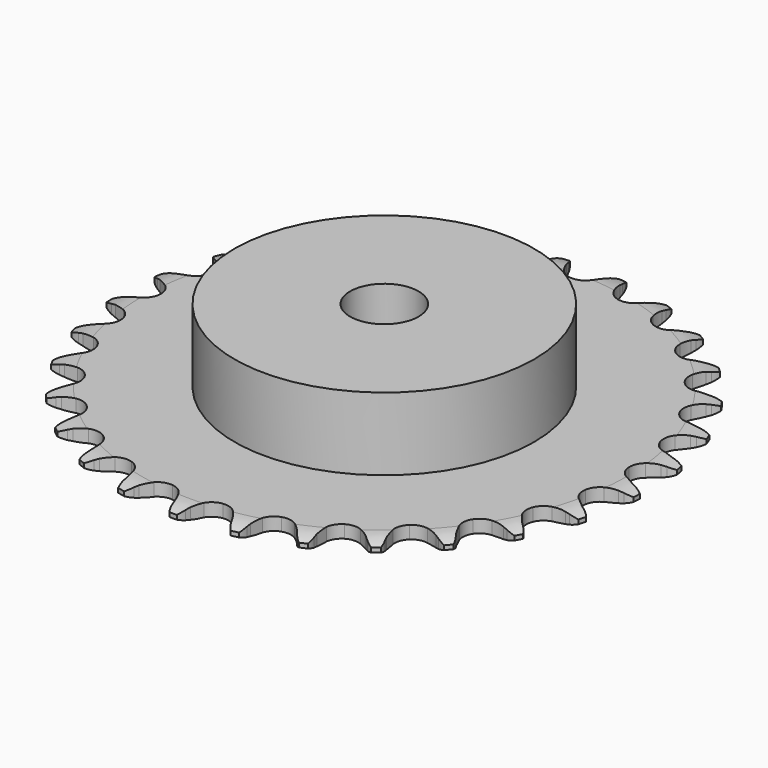
from build123d import *

# Parameters (mm, degrees)
PAD_DEPTH         = 3
SKETCH001_R       = 35
PAD001_DEPTH      = 20
SKETCH002_R       = 8
POCKET_DEPTH      = 0.001
POCKET_DEPTH_BACK = 20.001


with BuildPart() as part:
    # Sprocket → Pad (new body)
    with BuildSketch(Plane.XY):
        with BuildLine():
            ThreePointArc((-6.791897, 62.450459), (-5.669387, 61.260331), (-4.890226, 59.821809))
            Line((-4.890226, 59.821809), (-4.512435, 58.837629))
            ThreePointArc((-4.512435, 58.837629), (-3.912059, 57.551129), (-3.137763, 56.361172))
            ThreePointArc((-3.137763, 56.361172), (-1.752543, 55.21121), (0, 54.799098))
            ThreePointArc((0, 54.799098), (1.752543, 55.21121), (3.137763, 56.361172))
            ThreePointArc((3.137763, 56.361172), (3.912059, 57.551129), (4.512435, 58.837629))
            Line((4.512435, 58.837629), (4.890226, 59.821809))
            ThreePointArc((4.890226, 59.821809), (5.669387, 61.260331), (6.791897, 62.450459))
            ThreePointArc((6.791897, 62.450459), (7.632321, 61.046849), (8.084025, 59.474463))
            Line((8.084025, 59.474463), (8.241414, 58.432078))
            ThreePointArc((8.241414, 58.432078), (8.551194, 57.046593), (9.051582, 55.718005))
            ThreePointArc((9.051582, 55.718005), (10.157208, 54.297148), (11.780186, 53.517925))
            ThreePointArc((11.780186, 53.517925), (13.580348, 53.543658), (15.18039, 54.368952))
            Line((15.18039, 54.368952), (17.055288, 56.491998))
            ThreePointArc((17.055288, 56.491998), (17.3341, 56.939531), (17.635816, 57.371954))
            ThreePointArc((17.635816, 57.371954), (18.706, 58.609348), (20.058109, 59.530345))
            ThreePointArc((20.058109, 59.530345), (20.577149, 57.978884), (20.680276, 56.346156))
            Line((20.680276, 56.346156), (20.609904, 55.294308))
            ThreePointArc((20.609904, 55.294308), (20.614603, 53.874621), (20.817685, 52.469527))
            ThreePointArc((20.817685, 52.469527), (21.59202, 50.844211), (23.009544, 49.734314))
            ThreePointArc((23.009544, 49.734314), (24.773151, 49.372464), (26.513199, 49.834501))
            Line((26.513199, 49.834501), (28.800654, 51.504864))
            ThreePointArc((28.800654, 51.504864), (29.169155, 51.881997), (29.556775, 52.239451))
            ThreePointArc((29.556775, 52.239451), (30.867941, 53.217857), (32.386426, 53.826658))
            ThreePointArc((32.386426, 53.826658), (32.559813, 52.199891), (32.309541, 50.583166))
            Line((32.309541, 50.583166), (32.014698, 49.571038))
            ThreePointArc((32.014698, 49.571038), (31.714097, 48.183532), (31.610376, 46.767631))
            ThreePointArc((31.610376, 46.767631), (32.017213, 45.013856), (33.163001, 43.625182))
            ThreePointArc((33.163001, 43.625182), (34.807589, 42.892668), (36.606279, 42.969845))
            Line((36.606279, 42.969845), (39.199334, 44.109419))
            ThreePointArc((39.199334, 44.109419), (39.640292, 44.398519), (40.095692, 44.664289))
            ThreePointArc((40.095692, 44.664289), (41.586532, 45.337958), (43.20039, 45.606097))
            ThreePointArc((43.20039, 45.606097), (43.020016, 43.980089), (42.428048, 42.454964))
            Line((42.428048, 42.454964), (41.92252, 41.529881))
            ThreePointArc((41.92252, 41.529881), (41.330674, 40.239435), (40.925002, 38.878934))
            ThreePointArc((40.925002, 38.878934), (40.945317, 37.078702), (41.765793, 35.476184))
            ThreePointArc((41.765793, 35.476184), (43.214462, 34.407258), (44.987691, 34.095965))
            Line((44.987691, 34.095965), (47.765097, 34.651467))
            ThreePointArc((47.765097, 34.651467), (48.257893, 34.839015), (48.759779, 35.000674))
            ThreePointArc((48.759779, 35.000674), (50.360583, 35.338106), (51.994351, 35.253045))
            ThreePointArc((51.994351, 35.253045), (51.468651, 33.703828), (50.562666, 32.341614))
            Line((50.562666, 32.341614), (49.870091, 31.546833))
            ThreePointArc((49.870091, 31.546833), (49.014674, 30.413786), (48.326019, 29.1723))
            ThreePointArc((48.326019, 29.1723), (47.958863, 27.40979), (48.415663, 25.66836))
            ThreePointArc((48.415663, 25.66836), (49.600675, 24.313004), (51.265529, 23.627797))
            Line((51.265529, 23.627797), (54.097417, 23.573251))
            ThreePointArc((54.097417, 23.573251), (54.619009, 23.650478), (55.143912, 23.700466))
            ThreePointArc((55.143912, 23.700466), (56.779829, 23.685884), (58.357115, 23.2516))
            ThreePointArc((58.357115, 23.2516), (57.510669, 21.851612), (56.33303, 20.716007))
            Line((56.33303, 20.716007), (55.485793, 20.08869))
            ThreePointArc((55.485793, 20.08869), (54.406804, 19.166022), (53.467366, 18.101602))
            ThreePointArc((53.467366, 18.101602), (52.729906, 16.459227), (52.80167, 14.660312))
            ThreePointArc((52.80167, 14.660312), (53.667616, 13.0819), (55.146247, 12.054819))
            Line((55.146247, 12.054819), (57.900201, 11.392776))
            ThreePointArc((57.900201, 11.392776), (58.4262, 11.356071), (58.949578, 11.292052))
            ThreePointArc((58.949578, 11.292052), (60.544113, 10.926137), (61.991164, 10.162936))
            ThreePointArc((61.991164, 10.162936), (60.863553, 8.97764), (59.469324, 8.121742))
            Line((59.469324, 8.121742), (58.50704, 7.691222))
            ThreePointArc((58.50704, 7.691222), (57.254931, 7.022077), (56.108638, 6.184494))
            ThreePointArc((56.108638, 6.184494), (55.035358, 4.739048), (54.71873, 2.966763))
            ThreePointArc((54.71873, 2.966763), (55.225119, 1.239102), (56.448388, -0.081829))
            Line((56.448388, -0.081829), (58.995637, -1.320412))
            ThreePointArc((58.995637, -1.320412), (59.501448, -1.469334), (59.998827, -1.644367))
            ThreePointArc((59.998827, -1.644367), (61.477421, -2.344505), (62.726576, -3.400936))
            ThreePointArc((62.726576, -3.400936), (61.370524, -4.316117), (59.824899, -4.852287))
            Line((59.824899, -4.852287), (58.792564, -5.065879))
            ThreePointArc((58.792564, -5.065879), (57.425881, -5.450213), (56.126333, -6.021795))
            ThreePointArc((56.126333, -6.021795), (54.767417, -7.202724), (54.077203, -8.865507))
            ThreePointArc((54.077203, -8.865507), (54.200357, -10.661636), (55.111065, -12.214651))
            Line((55.111065, -12.214651), (57.332502, -13.97186))
            ThreePointArc((57.332502, -13.97186), (57.794474, -14.226034), (58.242597, -14.503897))
            ThreePointArc((58.242597, -14.503897), (59.536114, -15.50552), (60.528963, -16.805784))
            ThreePointArc((60.528963, -16.805784), (59.007877, -17.408057), (57.383127, -17.599428))
            Line((57.383127, -17.599428), (56.329012, -17.586104))
            ThreePointArc((56.329012, -17.586104), (54.911662, -17.667657), (53.519622, -17.946511))
            ThreePointArc((53.519622, -17.946511), (51.938612, -18.807704), (50.907086, -20.283237))
            ThreePointArc((50.907086, -20.283237), (50.641246, -22.063848), (51.19681, -23.776329))
            Line((51.19681, -23.776329), (52.988563, -25.969998))
            ThreePointArc((52.988563, -25.969998), (53.385094, -26.317541), (53.763009, -26.685241))
            ThreePointArc((53.763009, -26.685241), (54.810965, -27.941514), (55.501083, -29.424812))
            ThreePointArc((55.501083, -29.424812), (53.886088, -29.686016), (52.258185, -29.523639))
            Line((52.258185, -29.523639), (51.231578, -29.284024))
            ThreePointArc((51.231578, -29.284024), (49.829833, -29.058981), (48.410394, -29.032068))
            ThreePointArc((48.410394, -29.032068), (46.681216, -29.533256), (45.35661, -30.752545))
            ThreePointArc((45.35661, -30.752545), (44.714207, -32.434378), (44.88865, -34.226253))
            Line((44.88865, -34.226253), (46.166938, -36.753809))
            ThreePointArc((46.166938, -36.753809), (46.479487, -37.178469), (46.769522, -37.618812))
            ThreePointArc((46.769522, -37.618812), (47.522915, -39.070994), (47.878034, -40.667968))
            ThreePointArc((47.878034, -40.667968), (46.244646, -40.57589), (44.689708, -40.067358))
            Line((44.689708, -40.067358), (43.738613, -39.612654))
            ThreePointArc((43.738613, -39.612654), (42.418018, -39.09154), (41.037549, -38.760118))
            ThreePointArc((41.037549, -38.760118), (39.241058, -38.877867), (37.68531, -39.783898))
            ThreePointArc((37.68531, -39.783898), (36.696381, -41.288313), (36.481545, -43.075795))
            Line((36.481545, -43.075795), (37.186598, -45.819052))
            ThreePointArc((37.186598, -45.819052), (37.400551, -46.300972), (37.589144, -46.79337))
            ThreePointArc((37.589144, -46.79337), (38.012747, -48.373558), (38.016261, -50.009536))
            ThreePointArc((38.016261, -50.009536), (36.440855, -49.56848), (35.03159, -48.737571))
            Line((35.03159, -48.737571), (34.200479, -48.089041))
            ThreePointArc((34.200479, -48.089041), (33.022782, -47.296221), (31.745834, -46.675788))
            ThreePointArc((31.745834, -46.675788), (29.966032, -46.404591), (28.251886, -46.955))
            ThreePointArc((28.251886, -46.955), (26.962673, -48.211652), (26.368604, -49.91116))
            Line((26.368604, -49.91116), (26.467454, -52.741848))
            ThreePointArc((26.467454, -52.741848), (26.572806, -53.258494), (26.651139, -53.779922))
            ThreePointArc((26.651139, -53.779922), (26.725145, -55.414228), (26.37689, -57.012713))
            ThreePointArc((26.37689, -57.012713), (24.93313, -56.243303), (23.735434, -55.12887))
            Line((23.735434, -55.12887), (23.063168, -54.316838))
            ThreePointArc((23.063168, -54.316838), (22.083439, -53.289384), (20.96972, -52.40895))
            ThreePointArc((20.96972, -52.40895), (19.289827, -51.761489), (17.497436, -51.930539))
            ThreePointArc((17.497436, -51.930539), (15.968221, -52.880668), (15.022697, -54.412736))
            Line((15.022697, -54.412736), (14.510722, -57.198493))
            ThreePointArc((14.510722, -57.198493), (14.502547, -57.725708), (14.466957, -58.251784))
            ThreePointArc((14.466957, -58.251784), (14.187905, -59.86379), (13.504165, -61.350039))
            ThreePointArc((13.504165, -61.350039), (12.259559, -60.288251), (11.329435, -58.942405))
            Line((11.329435, -58.942405), (10.84745, -58.00484))
            ThreePointArc((10.84745, -58.00484), (10.111498, -56.790794), (9.213084, -55.691528))
            ThreePointArc((9.213084, -55.691528), (7.711652, -54.698077), (5.924825, -54.477863))
            ThreePointArc((5.924825, -54.477863), (4.227112, -55.077043), (2.974345, -56.370032))
            Line((2.974345, -56.370032), (1.875484, -58.9806))
            ThreePointArc((1.875484, -58.9806), (1.754164, -59.493732), (1.606316, -59.999858))
            ThreePointArc((1.606316, -59.999858), (0.987254, -61.514188), (0, -62.818705))
            ThreePointArc((0, -62.818705), (-0.987254, -61.514188), (-1.606316, -59.999858))
            Line((-1.606316, -59.999858), (-1.875484, -58.9806))
            ThreePointArc((-1.875484, -58.9806), (-2.333245, -57.63673), (-2.974345, -56.370032))
            ThreePointArc((-2.974345, -56.370032), (-4.227112, -55.077043), (-5.924825, -54.477863))
            ThreePointArc((-5.924825, -54.477863), (-7.711652, -54.698077), (-9.213084, -55.691528))
            Line((-9.213084, -55.691528), (-10.84745, -58.00484))
            ThreePointArc((-10.84745, -58.00484), (-11.076241, -58.479895), (-11.329435, -58.942405))
            ThreePointArc((-11.329435, -58.942405), (-12.259559, -60.288251), (-13.504165, -61.350039))
            ThreePointArc((-13.504165, -61.350039), (-14.187905, -59.86379), (-14.466957, -58.251784))
            Line((-14.466957, -58.251784), (-14.510722, -57.198493))
            ThreePointArc((-14.510722, -57.198493), (-14.668889, -55.787637), (-15.022697, -54.412736))
            ThreePointArc((-15.022697, -54.412736), (-15.968221, -52.880668), (-17.497436, -51.930539))
            ThreePointArc((-17.497436, -51.930539), (-19.289827, -51.761489), (-20.96972, -52.40895))
            Line((-20.96972, -52.40895), (-23.063168, -54.316838))
            ThreePointArc((-23.063168, -54.316838), (-23.388733, -54.731603), (-23.735434, -55.12887))
            ThreePointArc((-23.735434, -55.12887), (-24.93313, -56.243303), (-26.37689, -57.012713))
            ThreePointArc((-26.37689, -57.012713), (-26.725145, -55.414228), (-26.651139, -53.779922))
            Line((-26.651139, -53.779922), (-26.467454, -52.741848))
            ThreePointArc((-26.467454, -52.741848), (-26.318631, -51.329975), (-26.368604, -49.91116))
            ThreePointArc((-26.368604, -49.91116), (-26.962673, -48.211652), (-28.251886, -46.955))
            ThreePointArc((-28.251886, -46.955), (-29.966032, -46.404591), (-31.745834, -46.675788))
            Line((-31.745834, -46.675788), (-34.200479, -48.089041))
            ThreePointArc((-34.200479, -48.089041), (-34.607594, -48.424123), (-35.03159, -48.737571))
            ThreePointArc((-35.03159, -48.737571), (-36.440855, -49.56848), (-38.016261, -50.009536))
            ThreePointArc((-38.016261, -50.009536), (-38.012747, -48.373558), (-37.589144, -46.79337))
            Line((-37.589144, -46.79337), (-37.186598, -45.819052))
            ThreePointArc((-37.186598, -45.819052), (-36.737743, -44.472181), (-36.481545, -43.075795))
            ThreePointArc((-36.481545, -43.075795), (-36.696381, -41.288313), (-37.68531, -39.783898))
            ThreePointArc((-37.68531, -39.783898), (-39.241058, -38.877867), (-41.037549, -38.760118))
            Line((-41.037549, -38.760118), (-43.738613, -39.612654))
            ThreePointArc((-43.738613, -39.612654), (-44.208243, -39.852384), (-44.689708, -40.067358))
            ThreePointArc((-44.689708, -40.067358), (-46.244646, -40.57589), (-47.878034, -40.667968))
            ThreePointArc((-47.878034, -40.667968), (-47.522915, -39.070994), (-46.769522, -37.618812))
            Line((-46.769522, -37.618812), (-46.166938, -36.753809))
            ThreePointArc((-46.166938, -36.753809), (-45.43904, -35.534917), (-44.88865, -34.226253))
            ThreePointArc((-44.88865, -34.226253), (-44.714207, -32.434378), (-45.35661, -30.752545))
            ThreePointArc((-45.35661, -30.752545), (-46.681216, -29.533256), (-48.410394, -29.032068))
            Line((-48.410394, -29.032068), (-51.231578, -29.284024))
            ThreePointArc((-51.231578, -29.284024), (-51.741763, -29.417192), (-52.258185, -29.523639))
            ThreePointArc((-52.258185, -29.523639), (-53.886088, -29.686016), (-55.501083, -29.424812))
            ThreePointArc((-55.501083, -29.424812), (-54.810965, -27.941514), (-53.763009, -26.685241))
            Line((-53.763009, -26.685241), (-52.988563, -25.969998))
            ThreePointArc((-52.988563, -25.969998), (-52.015657, -24.936081), (-51.19681, -23.776329))
            ThreePointArc((-51.19681, -23.776329), (-50.641246, -22.063848), (-50.907086, -20.283237))
            ThreePointArc((-50.907086, -20.283237), (-51.938612, -18.807704), (-53.519622, -17.946511))
            Line((-53.519622, -17.946511), (-56.329012, -17.586104))
            ThreePointArc((-56.329012, -17.586104), (-56.855896, -17.606484), (-57.383127, -17.599428))
            ThreePointArc((-57.383127, -17.599428), (-59.007877, -17.408057), (-60.528963, -16.805784))
            ThreePointArc((-60.528963, -16.805784), (-59.536114, -15.50552), (-58.242597, -14.503897))
            Line((-58.242597, -14.503897), (-57.332502, -13.97186))
            ThreePointArc((-57.332502, -13.97186), (-56.16008, -13.17126), (-55.111065, -12.214651))
            ThreePointArc((-55.111065, -12.214651), (-54.200357, -10.661636), (-54.077203, -8.865507))
            ThreePointArc((-54.077203, -8.865507), (-54.767417, -7.202724), (-56.126333, -6.021795))
            Line((-56.126333, -6.021795), (-58.792564, -5.065879))
            ThreePointArc((-58.792564, -5.065879), (-59.311511, -4.972517), (-59.824899, -4.852287))
            ThreePointArc((-59.824899, -4.852287), (-61.370524, -4.316117), (-62.726576, -3.400936))
            ThreePointArc((-62.726576, -3.400936), (-61.477421, -2.344505), (-59.998827, -1.644367))
            Line((-59.998827, -1.644367), (-58.995637, -1.320412))
            ThreePointArc((-58.995637, -1.320412), (-57.67852, -0.790566), (-56.448388, -0.081829))
            ThreePointArc((-56.448388, -0.081829), (-55.225119, 1.239102), (-54.71873, 2.966763))
            ThreePointArc((-54.71873, 2.966763), (-55.035358, 4.739048), (-56.108638, 6.184494))
            Line((-56.108638, 6.184494), (-58.50704, 7.691222))
            ThreePointArc((-58.50704, 7.691222), (-58.993785, 7.893959), (-59.469324, 8.121742))
            ThreePointArc((-59.469324, 8.121742), (-60.863553, 8.97764), (-61.991164, 10.162936))
            ThreePointArc((-61.991164, 10.162936), (-60.544113, 10.926137), (-58.949578, 11.292052))
            Line((-58.949578, 11.292052), (-57.900201, 11.392776))
            ThreePointArc((-57.900201, 11.392776), (-56.499977, 11.627094), (-55.146247, 12.054819))
            ThreePointArc((-55.146247, 12.054819), (-53.667616, 13.0819), (-52.80167, 14.660312))
            ThreePointArc((-52.80167, 14.660312), (-52.729906, 16.459227), (-53.467366, 18.101602))
            Line((-53.467366, 18.101602), (-55.485793, 20.08869))
            ThreePointArc((-55.485793, 20.08869), (-55.917575, 20.391322), (-56.33303, 20.716007))
            ThreePointArc((-56.33303, 20.716007), (-57.510669, 21.851612), (-58.357115, 23.2516))
            ThreePointArc((-58.357115, 23.2516), (-56.779829, 23.685884), (-55.143912, 23.700466))
            Line((-55.143912, 23.700466), (-54.097417, 23.573251))
            ThreePointArc((-54.097417, 23.573251), (-52.679557, 23.501084), (-51.265529, 23.627797))
            ThreePointArc((-51.265529, 23.627797), (-49.600675, 24.313004), (-48.415663, 25.66836))
            ThreePointArc((-48.415663, 25.66836), (-47.958863, 27.40979), (-48.326019, 29.1723))
            Line((-48.326019, 29.1723), (-49.870091, 31.546833))
            ThreePointArc((-49.870091, 31.546833), (-50.226722, 31.93521), (-50.562666, 32.341614))
            ThreePointArc((-50.562666, 32.341614), (-51.468651, 33.703828), (-51.994351, 35.253045))
            ThreePointArc((-51.994351, 35.253045), (-50.360583, 35.338106), (-48.759779, 35.000674))
            Line((-48.759779, 35.000674), (-47.765097, 34.651467))
            ThreePointArc((-47.765097, 34.651467), (-46.3959, 34.276189), (-44.987691, 34.095965))
            ThreePointArc((-44.987691, 34.095965), (-43.214462, 34.407258), (-41.765793, 35.476184))
            ThreePointArc((-41.765793, 35.476184), (-40.945317, 37.078702), (-40.925002, 38.878934))
            Line((-40.925002, 38.878934), (-41.92252, 41.529881))
            ThreePointArc((-41.92252, 41.529881), (-42.187323, 41.985843), (-42.428048, 42.454964))
            ThreePointArc((-42.428048, 42.454964), (-43.020016, 43.980089), (-43.20039, 45.606097))
            ThreePointArc((-43.20039, 45.606097), (-41.586532, 45.337958), (-40.095692, 44.664289))
            Line((-40.095692, 44.664289), (-39.199334, 44.109419))
            ThreePointArc((-39.199334, 44.109419), (-37.942822, 43.448578), (-36.606279, 42.969845))
            ThreePointArc((-36.606279, 42.969845), (-34.807589, 42.892668), (-33.163001, 43.625182))
            ThreePointArc((-33.163001, 43.625182), (-32.017213, 45.013856), (-31.610376, 46.767631))
            Line((-31.610376, 46.767631), (-32.014698, 49.571038))
            ThreePointArc((-32.014698, 49.571038), (-32.175291, 50.073265), (-32.309541, 50.583166))
            ThreePointArc((-32.309541, 50.583166), (-32.559813, 52.199891), (-32.386426, 53.826658))
            ThreePointArc((-32.386426, 53.826658), (-30.867941, 53.217857), (-29.556775, 52.239451))
            Line((-29.556775, 52.239451), (-28.800654, 51.504864))
            ThreePointArc((-28.800654, 51.504864), (-27.71558, 50.589359), (-26.513199, 49.834501))
            ThreePointArc((-26.513199, 49.834501), (-24.773151, 49.372464), (-23.009544, 49.734314))
            ThreePointArc((-23.009544, 49.734314), (-21.59202, 50.844211), (-20.817685, 52.469527))
            Line((-20.817685, 52.469527), (-20.609904, 55.294308))
            ThreePointArc((-20.609904, 55.294308), (-20.658779, 55.819316), (-20.680276, 56.346156))
            ThreePointArc((-20.680276, 56.346156), (-20.577149, 57.978884), (-20.058109, 59.530345))
            ThreePointArc((-20.058109, 59.530345), (-18.706, 58.609348), (-17.635816, 57.371954))
            Line((-17.635816, 57.371954), (-17.055288, 56.491998))
            ThreePointArc((-17.055288, 56.491998), (-16.192389, 55.364639), (-15.18039, 54.368952))
            ThreePointArc((-15.18039, 54.368952), (-13.580348, 53.543658), (-11.780186, 53.517925))
            ThreePointArc((-11.780186, 53.517925), (-10.157208, 54.297148), (-9.051582, 55.718005))
            Line((-9.051582, 55.718005), (-8.241414, 58.432078))
            ThreePointArc((-8.241414, 58.432078), (-8.176285, 58.955319), (-8.084025, 59.474463))
            ThreePointArc((-8.084025, 59.474463), (-7.632321, 61.046849), (-6.791897, 62.450459))
        make_face()
    extrude(amount=PAD_DEPTH)

    # Sketch → Groove (revolve, cut)
    with BuildSketch(Plane.XZ):
        with BuildLine():
            Line((56.7, 0), (61.7, 0))
            Line((66.7, 0), (61.7, 0))
            Line((66.7, 3), (66.7, 0))
            Line((61.7, 3), (66.7, 3))
            Line((56.7, 3), (61.7, 3))
            ThreePointArc((61.7, 2), (59.24951, 2.747549), (56.7, 3))
            Line((61.7, 1), (61.7, 2))
            ThreePointArc((56.7, 0), (59.24951, 0.252451), (61.7, 1))
        make_face()
    revolve(axis=Axis((0, 0, 0), (0, 0, 1)), mode=Mode.SUBTRACT)

    # Sketch001 → Pad001 (join)
    with BuildSketch(Plane.XY):
        Circle(SKETCH001_R)
    extrude(amount=PAD001_DEPTH)

    # Sketch002 → Pocket (cut, two sides)
    with BuildSketch(Plane.XY) as pocket_sk:
        Circle(SKETCH002_R)
    extrude(amount=-POCKET_DEPTH, mode=Mode.SUBTRACT)
    extrude(pocket_sk.sketch, amount=POCKET_DEPTH_BACK, mode=Mode.SUBTRACT)


solid = part.part
